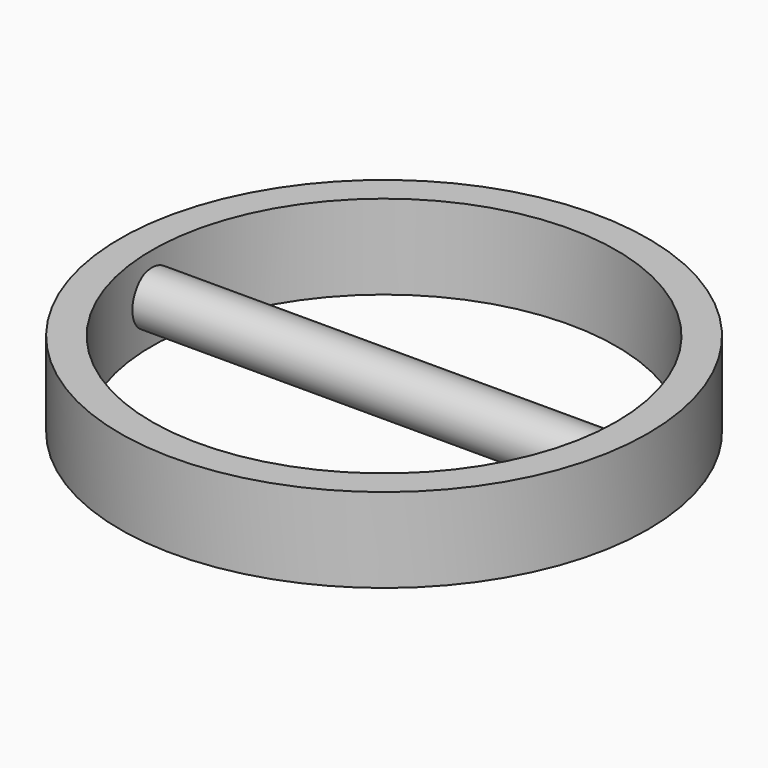
from build123d import *

# Parameters (mm, degrees)
F0_R          = 25
F0_R_2        = 22
F1_DEPTH      = 8
F2_R          = 2.5
F3_DEPTH      = 24
F3_DEPTH_BACK = 24


with BuildPart() as f1:
    # F0 (on Top) → F1 (new body)
    with BuildSketch(Plane.XY):
        Circle(F0_R)
        Circle(F0_R_2, mode=Mode.SUBTRACT)
    extrude(amount=F1_DEPTH)


with BuildPart() as f3:
    # F2 (on Right) → F3 (new body, two sides)
    with BuildSketch(Plane.YZ) as f3_sk:
        with Locations((0, 4.067057)):
            Circle(F2_R)
    extrude(amount=F3_DEPTH)
    extrude(f3_sk.sketch, amount=-F3_DEPTH_BACK)


solid = Compound([f1.part, f3.part])
